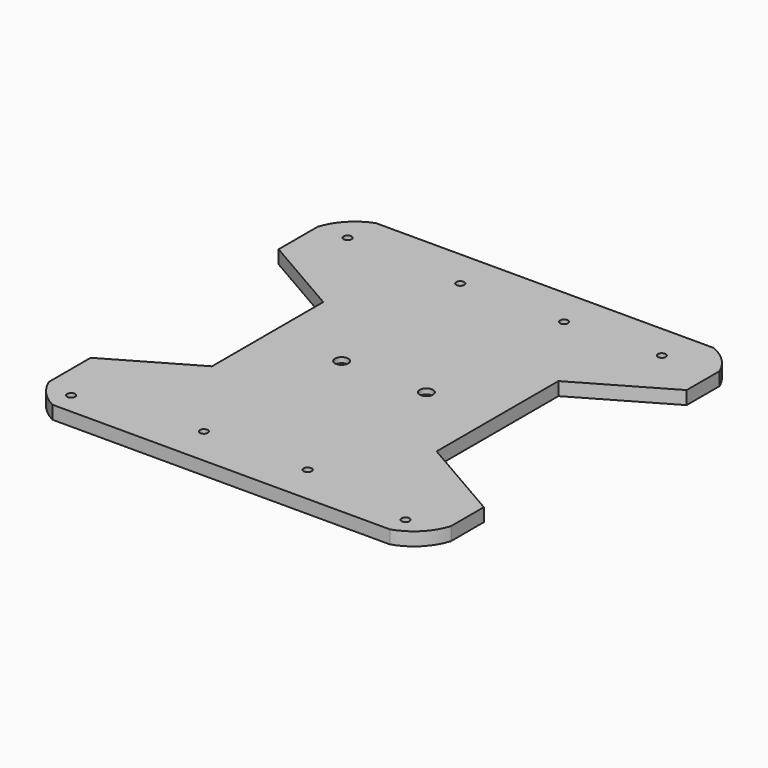
from build123d import *

# Parameters (mm, degrees)
SKETCH_W        = 150
SKETCH_H        = 150
PAD_DEPTH       = 5
SKETCH001_R     = 1.5
POCKET_DEPTH    = 6
POCKET001_DEPTH = 6
SKETCH003_R     = 1.5
POCKET002_DEPTH = 6
SKETCH004_R     = 2.5
POCKET003_DEPTH = 2


with BuildPart() as part:
    # Sketch → Pad (new body)
    with BuildSketch(Plane.XY):
        Rectangle(SKETCH_W, SKETCH_H)
    extrude(amount=PAD_DEPTH)

    # Sketch001 (on Face6 of Pad) → Pocket (cut)
    with BuildSketch(Plane.XY.offset(5)):
        with Locations((-63.698635, 62.476162)):
            Circle(SKETCH001_R)
        with Locations((55.516754, 61.662395)):
            Circle(SKETCH001_R)
        with Locations((62.026806, -67.318062)):
            Circle(SKETCH001_R)
        with Locations((-64.51239, -66.911179)):
            Circle(SKETCH001_R)
        with Locations((-15.987179, 0)):
            Circle(SKETCH001_R)
        with Locations((15.989725, 0)):
            Circle(SKETCH001_R)
        Polygon((-78.334322, 45.976028), (-43.69331, 25.97602), (-43.69331, -26.515585), (-78.334322, -46.515593), align=None)
        Polygon((76.538069, 49.887789), (41.89705, 29.887793), (41.89705, -27.543442), (76.538069, -47.543438), align=None)
    extrude(amount=-POCKET_DEPTH, mode=Mode.SUBTRACT)

    # Sketch002 (on Face5 of Pocket) → Pocket001 (cut)
    with BuildSketch(Plane.XY.offset(5)):
        with BuildLine():
            ThreePointArc((-76.389725, -59.129343), (-71.755036, -69.691564), (-62.212372, -76.170639))
            Line((-62.212372, -76.170639), (-76.389725, -76.170639))
            Line((-76.389725, -59.129343), (-76.389725, -76.170639))
        make_face()
        with BuildLine():
            ThreePointArc((76.179779, 60.880058), (70.14646, 71.330769), (59.165479, 76.334403))
            Line((59.165479, 76.334403), (75.819939, 75.661225))
            Line((76.179779, 60.880058), (75.819939, 75.661225))
        make_face()
        with BuildLine():
            ThreePointArc((60.306034, -75.499916), (70.844496, -69.462138), (75.808842, -58.377499))
            Line((75.808842, -58.377499), (75.280468, -75.273705))
            Line((60.306034, -75.499916), (75.280468, -75.273705))
        make_face()
        with BuildLine():
            ThreePointArc((-57.073154, 76.163305), (-69.273576, 71.27005), (-75.626793, 59.762188))
            Line((-75.626793, 59.762188), (-75.289242, 75.58445))
            Line((-57.073154, 76.163305), (-75.289242, 75.58445))
        make_face()
    extrude(amount=-POCKET001_DEPTH, mode=Mode.SUBTRACT)

    # Sketch003 (on Face4 of Pocket001) → Pocket002 (cut)
    with BuildSketch(Plane.XY.offset(5)):
        with Locations((-19.585, 60.455048)):
            Circle(SKETCH003_R)
        with Locations((19.585, 60.455048)):
            Circle(SKETCH003_R)
        with Locations((19.585, -60.455048)):
            Circle(SKETCH003_R)
        with Locations((-19.585, -60.455048)):
            Circle(SKETCH003_R)
    extrude(amount=-POCKET002_DEPTH, mode=Mode.SUBTRACT)

    # Sketch004 (on Face4 of Pocket002) → Pocket003 (cut)
    with BuildSketch(Plane.XY.offset(5)):
        with Locations((-15.954409, 0)):
            Circle(SKETCH004_R)
        with Locations((15.993672, 0)):
            Circle(SKETCH004_R)
    extrude(amount=-POCKET003_DEPTH, mode=Mode.SUBTRACT)


solid = part.part
